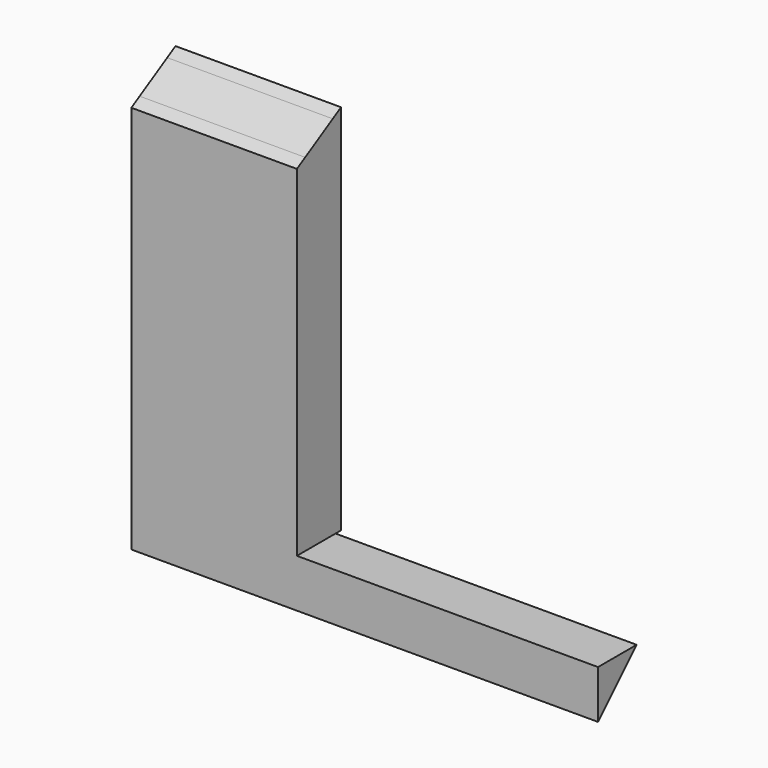
from build123d import *

# Parameters (mm, degrees)
F0_W      = 20
F0_H      = 50
F0_H_2    = 2
F1_DEPTH  = 8
F3_DEPTH  = 50
F4_DEPTH  = 25.4
F5_T      = -2
F6_W      = 2
F6_H      = 5
F6_H_2    = 2
F6_W_2    = 20
F6_W_3    = 43.6544959545
F6_H_3    = 1
F6_H_4    = 3
F7_DEPTH  = 8
F9_DEPTH  = 76.2
F10_DEPTH = 6


with BuildPart() as f1:
    # F0 (on Front) → F1 (new body)
    with BuildSketch(Plane.XZ):
        Polygon((12, 27), (-12, 27), (-12, -27), (-10, -27), (-10, -25), (-10, 25), (10, 25), (10, -25), (10, -27), (12, -27), align=None)
        Rectangle(F0_W, F0_H)
        with Locations((0, -26)):
            Rectangle(F0_W, F0_H_2)
    extrude(amount=F1_DEPTH)

    # F2 (on Right) → F3 (cut)
    with BuildSketch(Plane.YZ):
        Polygon((-6.5, 23.2472232503), (-1.5, 26.1339745962), (0, 27), (-8, 27), (-8, 22.3811978465), align=None)
    extrude(amount=-F3_DEPTH, mode=Mode.SUBTRACT)

    # F2 (on Right) → F4 (cut)
    with BuildSketch(Plane.YZ):
        Polygon((-6.5, 23.2472232503), (-1.5, 26.1339745962), (0, 27), (-8, 27), (-8, 22.3811978465), align=None)
    extrude(amount=F4_DEPTH, mode=Mode.SUBTRACT)

    # F5
    f5_openings = [f1.faces().sort_by_distance(p)[0] for p in [
        (0, 0, 0),
        (0, -4, -27),
    ]]
    offset(amount=F5_T, openings=f5_openings)

    # F6 (on face) → F7 (join)
    with BuildSketch(Plane(origin=(0, 0, 0), x_dir=(-1, 0, 0), z_dir=(0, 1, 0))):
        with Locations((11, -29.5)):
            Rectangle(F6_W, F6_H)
        with Locations((11, -33)):
            Rectangle(F6_W, F6_H_2)
        with Locations((0, -33)):
            Rectangle(F6_W_2, F6_H_2)
        with Locations((-31.8272479773, -33)):
            Rectangle(F6_W_3, F6_H_2)
        Polygon((-10, -28), (-10, -27), (-12, -27), (-53.6544959545, -27), (-53.6544959545, -28), align=None)
        with Locations((-54.6544959545, -27.5)):
            Rectangle(F6_W, F6_H_3)
        with Locations((-54.6544959545, -30.5)):
            Rectangle(F6_W, F6_H_4)
        with Locations((-54.6544959545, -33)):
            Rectangle(F6_W, F6_H_2)
        Polygon((10, -32), (10, -27), (-10, -27), (-10, -28), (-10, -29), (-53.6544959545, -29), (-53.6544959545, -32), (-10, -32), align=None)
        with Locations((-31.8272479773, -28.5)):
            Rectangle(F6_W_3, F6_H_3)
        with Locations((-54.6544959545, -28.5)):
            Rectangle(F6_W, F6_H_3)
    extrude(amount=-F7_DEPTH)

    # F8 (on face) → F9 (cut)
    with BuildSketch(Plane.YZ.offset(55.6544959545)):
        Polygon((-1, -27), (-8, -34), (0, -34), (0, -27), align=None)
    extrude(amount=-F9_DEPTH, mode=Mode.SUBTRACT)

    # F6 (on face) → F10 (cut)
    with BuildSketch(Plane(origin=(0, 0, 0), x_dir=(-1, 0, 0), z_dir=(0, 1, 0))):
        Polygon((10, -32), (10, -27), (-10, -27), (-10, -28), (-10, -29), (-53.6544959545, -29), (-53.6544959545, -32), (-10, -32), align=None)
    extrude(amount=-F10_DEPTH, mode=Mode.SUBTRACT)


solid = f1.part
